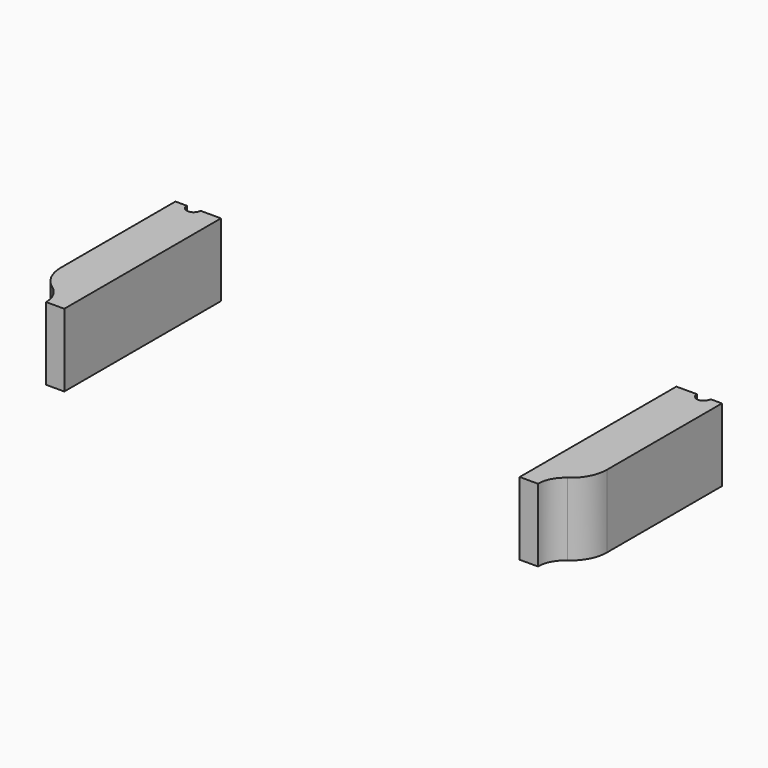
from build123d import *

# Parameters (mm, degrees)
CYLINDER1057_R               = 6
CYLINDER1057_DEPTH           = 16
CYLINDER1052_R               = 6
CYLINDER1052_DEPTH           = 16
CYLINDER1058_R               = 1.5
CYLINDER1058_DEPTH           = 50
CYLINDER1058_PLACEMENT_ANGLE = 45
CYLINDER1054_R               = 1.5
CYLINDER1054_DEPTH           = 50
CYLINDER1050_R               = 1.5
CYLINDER1050_DEPTH           = 50
CYLINDER1050_PLACEMENT_ANGLE = 135
CYLINDER1055_R               = 1.5
CYLINDER1055_DEPTH           = 50
CYLINDER1049_R               = 1.5
CYLINDER1049_DEPTH           = 50
CYLINDER1049_PLACEMENT_ANGLE = 225
CYLINDER1056_R               = 1.5
CYLINDER1056_DEPTH           = 50
CYLINDER1053_R               = 1.5
CYLINDER1053_DEPTH           = 50
CYLINDER1053_PLACEMENT_ANGLE = 45
CYLINDER1051_R               = 1.5
CYLINDER1051_DEPTH           = 50
BOX439_W                     = 10
BOX439_H                     = 43
BOX439_DEPTH                 = 16
BOX440_W                     = 10
BOX440_H                     = 43
BOX440_DEPTH                 = 16
FILLET017_R                  = 8


with BuildPart() as obj1:
    # Cylinder1057 → Cylinder1057 (new body)
    with BuildSketch(Plane(origin=(-60, -43, 10), x_dir=(1, 0, 0), z_dir=(0, 0, 1))):
        Circle(CYLINDER1057_R)
    extrude(amount=CYLINDER1057_DEPTH)


with BuildPart() as compound831:
    # Cylinder1052 → Cylinder1052 (new body)
    with BuildSketch(Plane(origin=(60, -43, 10), x_dir=(1, 0, 0), z_dir=(0, 0, 1))):
        Circle(CYLINDER1052_R)
    extrude(amount=CYLINDER1052_DEPTH)

    # Compound831: union obj1
    add(obj1.part)


with BuildPart() as obj2:
    # Cylinder1058 → Cylinder1058 (new body)
    with BuildSketch(Plane.XY):
        Circle(CYLINDER1058_R)
    extrude(amount=CYLINDER1058_DEPTH)


with BuildPart() as obj2_1:
    # Cylinder1058 placement: moved
    add(obj2.part.moved(Location((39.59798, -39.59798, 2))).rotate(Axis((39.59798, -39.59798, 2), (0, 0, 1)), CYLINDER1058_PLACEMENT_ANGLE))


with BuildPart() as obj3:
    # Cylinder1054 → Cylinder1054 (new body)
    with BuildSketch(Plane(origin=(56, 0, 2), x_dir=(0, 1, 0), z_dir=(0, 0, 1))):
        Circle(CYLINDER1054_R)
    extrude(amount=CYLINDER1054_DEPTH)


with BuildPart() as obj4:
    # Cylinder1050 → Cylinder1050 (new body)
    with BuildSketch(Plane.XY):
        Circle(CYLINDER1050_R)
    extrude(amount=CYLINDER1050_DEPTH)


with BuildPart() as obj4_1:
    # Cylinder1050 placement: moved
    add(obj4.part.moved(Location((39.59798, 39.59798, 2))).rotate(Axis((39.59798, 39.59798, 2), (0, 0, 1)), CYLINDER1050_PLACEMENT_ANGLE))


with BuildPart() as obj5:
    # Cylinder1055 → Cylinder1055 (new body)
    with BuildSketch(Plane(origin=(0, 56, 2), x_dir=(-1, 0, 0), z_dir=(0, 0, 1))):
        Circle(CYLINDER1055_R)
    extrude(amount=CYLINDER1055_DEPTH)


with BuildPart() as obj6:
    # Cylinder1049 → Cylinder1049 (new body)
    with BuildSketch(Plane.XY):
        Circle(CYLINDER1049_R)
    extrude(amount=CYLINDER1049_DEPTH)


with BuildPart() as obj6_1:
    # Cylinder1049 placement: moved
    add(obj6.part.moved(Location((-39.59798, 39.59798, 2))).rotate(Axis((-39.59798, 39.59798, 2), (0, 0, 1)), CYLINDER1049_PLACEMENT_ANGLE))


with BuildPart() as obj7:
    # Cylinder1056 → Cylinder1056 (new body)
    with BuildSketch(Plane(origin=(-56, 0, 2), x_dir=(0, -1, 0), z_dir=(0, 0, 1))):
        Circle(CYLINDER1056_R)
    extrude(amount=CYLINDER1056_DEPTH)


with BuildPart() as obj8:
    # Cylinder1053 → Cylinder1053 (new body)
    with BuildSketch(Plane.XY):
        Circle(CYLINDER1053_R)
    extrude(amount=CYLINDER1053_DEPTH)


with BuildPart() as obj8_1:
    # Cylinder1053 placement: moved
    add(obj8.part.moved(Location((-39.59798, -39.59798, 2))).rotate(Axis((-39.59798, -39.59798, 2), (0, 0, -1)), CYLINDER1053_PLACEMENT_ANGLE))


with BuildPart() as compound830:
    # Cylinder1051 → Cylinder1051 (new body)
    with BuildSketch(Plane(origin=(0, -56, 2), x_dir=(1, 0, 0), z_dir=(0, 0, 1))):
        Circle(CYLINDER1051_R)
    extrude(amount=CYLINDER1051_DEPTH)

    # Compound830: union obj2, obj3, obj4, obj5, obj6, obj7, obj8
    add(obj2_1.part)
    add(obj3.part)
    add(obj4_1.part)
    add(obj5.part)
    add(obj6_1.part)
    add(obj7.part)
    add(obj8_1.part)


with BuildPart() as krychle439:
    # Box439 → Box439 (new body)
    with BuildSketch(Plane(origin=(50, -43, 10), x_dir=(1, 0, 0), z_dir=(0, 0, 1))):
        with Locations((5, 21.5)):
            Rectangle(BOX439_W, BOX439_H)
    extrude(amount=BOX439_DEPTH)


with BuildPart() as fillet017:
    # Box440 → Box440 (new body)
    with BuildSketch(Plane(origin=(-60, -43, 10), x_dir=(1, 0, 0), z_dir=(0, 0, 1))):
        with Locations((5, 21.5)):
            Rectangle(BOX440_W, BOX440_H)
    extrude(amount=BOX440_DEPTH)

    # Compound832: union Krychle439
    add(krychle439.part)

    # Cut439: cut Compound830
    add(compound830.part, mode=Mode.SUBTRACT)

    # Cut440: cut Compound831
    add(compound831.part, mode=Mode.SUBTRACT)

    # Fillet017
    fillet017_edges = [fillet017.edges().sort_by_distance(p)[0] for p in [
        (-60, -37, 18),
        (60, -37, 18),
    ]]
    fillet(fillet017_edges, radius=FILLET017_R)


with BuildPart() as fillet017_1:
    # Fillet017 placement: moved
    add(fillet017.part.moved(Location((0, 0, 6))))


solid = fillet017_1.part
